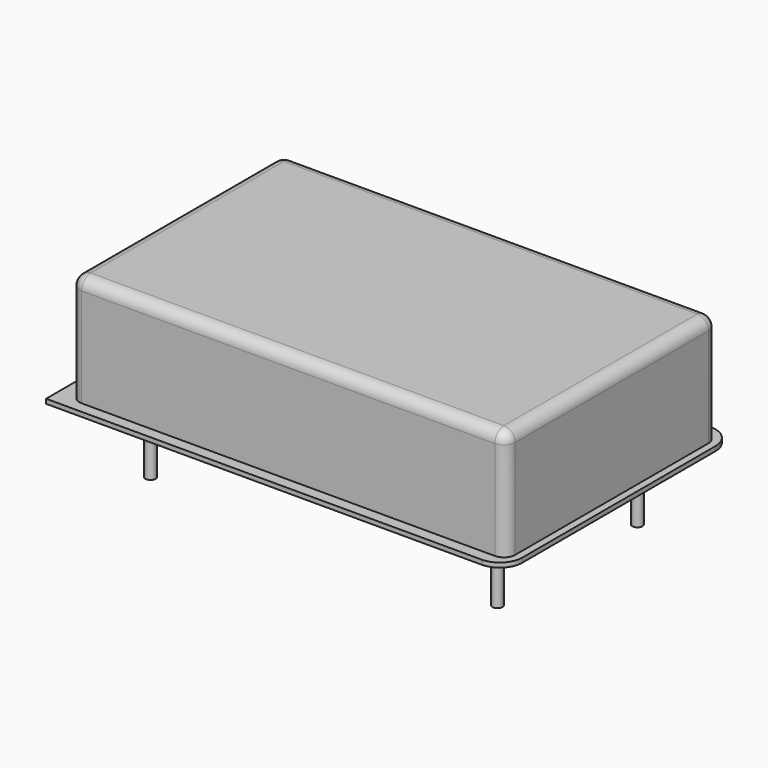
from build123d import *

# Parameters (mm, degrees)
PAD001_DEPTH = 0.2
PAD002_DEPTH = 5.08
FILLET_R     = 0.5
SKETCH_R     = 0.225
PAD_DEPTH    = 3


with BuildPart() as pad001:
    # Sketch001 → Pad001 (new body)
    with BuildSketch(Plane.XY.offset(0.8)):
        with BuildLine():
            Line((-2.645, -2.475), (16.655, -2.475))
            ThreePointArc((16.655, -2.475), (17.362107, -2.182107), (17.655, -1.475))
            Line((17.655, -1.475), (17.655, 9.225))
            ThreePointArc((17.655, 9.225), (17.362107, 9.932107), (16.655, 10.225))
            Line((16.655, 10.225), (-1.645, 10.225))
            ThreePointArc((-1.645, 10.225), (-2.352107, 9.932107), (-2.645, 9.225))
            Line((-2.645, 9.225), (-2.645, -2.475))
        make_face()
    extrude(amount=PAD001_DEPTH)


with BuildPart() as fillet_body:
    # Sketch002 → Pad002 (new body)
    with BuildSketch(Plane.XY.offset(0.8)):
        with BuildLine():
            Line((-1.465, -1.975), (16.835, -1.975))
            ThreePointArc((16.835, -1.975), (17.188553, -1.828553), (17.335, -1.475))
            Line((17.335, -1.475), (17.335, 9.225))
            ThreePointArc((17.335, 9.225), (17.188553, 9.578553), (16.835, 9.725))
            Line((16.835, 9.725), (-1.465, 9.725))
            ThreePointArc((-1.465, 9.725), (-1.818553, 9.578553), (-1.965, 9.225))
            Line((-1.965, 9.225), (-1.965, -1.475))
            ThreePointArc((-1.965, -1.475), (-1.818553, -1.828553), (-1.465, -1.975))
        make_face()
    extrude(amount=PAD002_DEPTH)

    # Fillet
    fillet_edges = [fillet_body.edges().sort_by_distance(p)[0] for p in [
        (-1.818553, -1.828553, 5.88),
        (7.685, -1.975, 5.88),
        (-1.965, 3.875, 5.88),
        (-1.818553, 9.578553, 5.88),
        (7.685, 9.725, 5.88),
        (17.188553, 9.578553, 5.88),
        (17.335, 3.875, 5.88),
        (17.188553, -1.828553, 5.88),
    ]]
    fillet(fillet_edges, radius=FILLET_R)


with BuildPart() as obj1:
    # Sketch → Pad (new body)
    with BuildSketch(Plane.XY.offset(0.8)):
        Circle(SKETCH_R)
        with Locations((15.37, 0)):
            Circle(SKETCH_R)
        with Locations((15.37, 7.75)):
            Circle(SKETCH_R)
        with Locations((0, 7.75)):
            Circle(SKETCH_R)
    extrude(amount=-PAD_DEPTH)

    # obj1: union Pad001, Fillet body
    add(pad001.part)
    add(fillet_body.part)


solid = obj1.part
